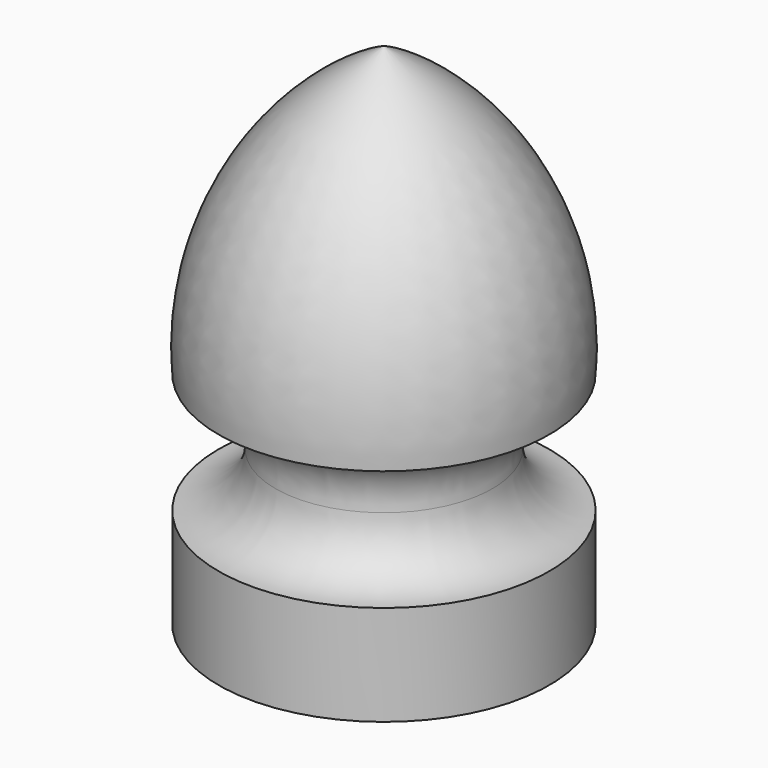
from build123d import *

# Parameters (mm, degrees)
F2_R     = 8.125
F3_DEPTH = 25


with BuildPart() as f1:
    # F0 (on Front) → F1 (revolve)
    with BuildSketch(Plane.XZ):
        with BuildLine():
            Line((-13, 0), (0, 0))
            Line((0, 0), (0, 40))
            ThreePointArc((0, 40), (-10.0022, 30.682389), (-13, 17.345408))
            ThreePointArc((-13, 17.345408), (-9.574717, 15.773249), (-8.533569, 12.15106))
            ThreePointArc((-8.533569, 12.15106), (-9.897774, 9.107996), (-13, 7.884276))
            Line((-13, 7.884276), (-13, 0))
        make_face()
    revolve(axis=Axis((0, 0, 20), (0, 0, 1)))

    # F2 (on face) → F3 (cut)
    with BuildSketch(Plane(origin=(0, 0, 0), x_dir=(1, 0, 0), z_dir=(0, 0, -1))):
        Circle(F2_R)
    extrude(amount=-F3_DEPTH, mode=Mode.SUBTRACT)


solid = f1.part
